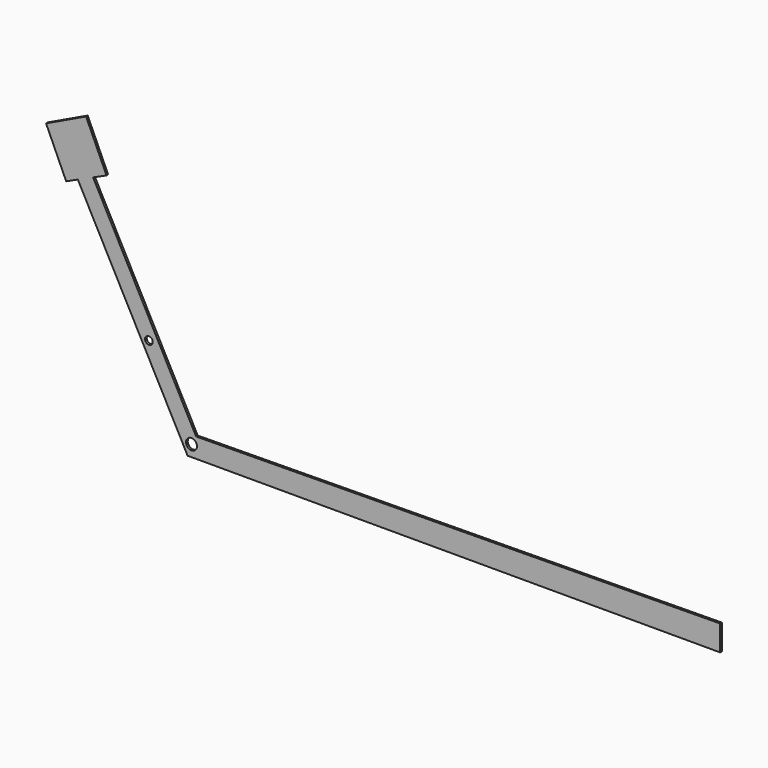
from build123d import *

# Parameters (mm, degrees)
F0_R     = 6.616182
F0_R_2   = 4.645767
F1_DEPTH = 2.54


with BuildPart() as f1:
    # F0 (on Front) → F1 (new body)
    with BuildSketch(Plane.XZ):
        Polygon((-364.856674, 214.07814), (-413.242323, 190.994352), (-388.933949, 137.168663), (-374.753703, 143.572645), (-356.316054, 151.899325), (-340.08609, 159.228985), align=None)
        Polygon((-356.316054, 151.899325), (-374.753703, 143.572645), (-249.10343, -93.875671), (-241.81131, -107.655998), (403.386004, -107.655998), (403.386004, -76.803351), (-231.575111, -83.830579), align=None)
        with Locations((-237.077969, -93.875671)):
            Circle(F0_R, mode=Mode.SUBTRACT)
        with Locations((-288.719173, 0)):
            Circle(F0_R_2, mode=Mode.SUBTRACT)
    extrude(amount=F1_DEPTH)


solid = f1.part
